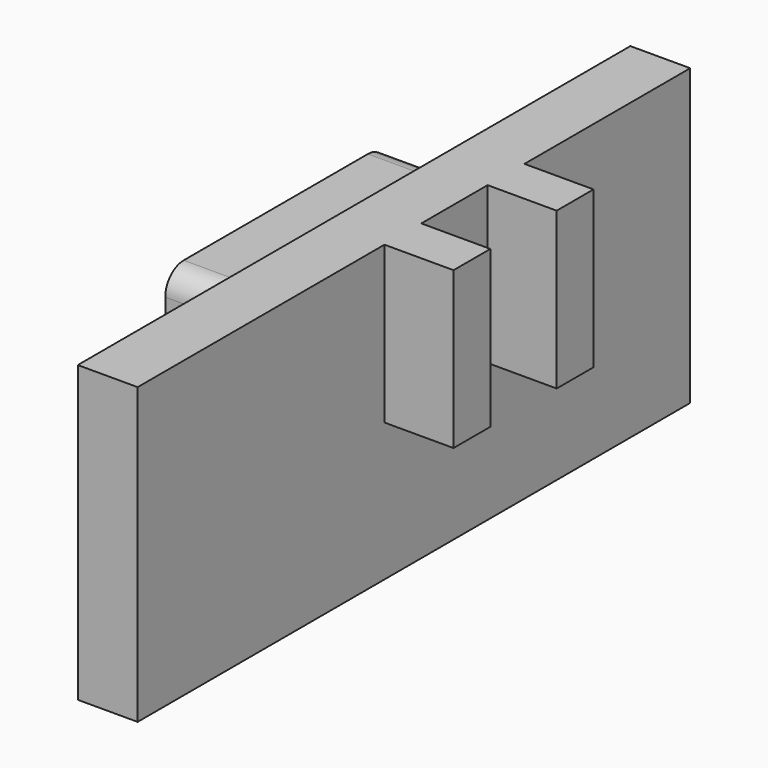
from build123d import *

# Parameters (mm, degrees)
SKETCH019_W  = 15
SKETCH019_H  = 6.4
PAD010_DEPTH = 1.3
SKETCH020_W  = 6
SKETCH020_H  = 1.5
PAD011_DEPTH = 2.5
SKETCH021_W  = 1
SKETCH021_H  = 3.4
PAD012_DEPTH = 1.5
FILLET_R     = 0.5


with BuildPart() as part:
    # Sketch019 → Pad010 (new body)
    with BuildSketch(Plane.YZ.offset(3.6)):
        with Locations((78.3, 5.2)):
            Rectangle(SKETCH019_W, SKETCH019_H)
    extrude(amount=-PAD010_DEPTH)

    # Sketch020 (on Face6 of Pad010) → Pad011 (join)
    with BuildSketch(Plane(origin=(2.3, 0, 0), x_dir=(0, 1, 0), z_dir=(-1, 0, 0))):
        with Locations((79.3, -6.4)):
            Rectangle(SKETCH020_W, SKETCH020_H)
    extrude(amount=PAD011_DEPTH)

    # Sketch021 (on Face4 of Pad011) → Pad012 (join)
    with BuildSketch(Plane.YZ.offset(3.6)):
        with Locations((78, 6.7)):
            Rectangle(SKETCH021_W, SKETCH021_H)
        with Locations((80.8, 6.7)):
            Rectangle(SKETCH021_W, SKETCH021_H)
    extrude(amount=PAD012_DEPTH)

    # Fillet
    fillet_edges = [part.edges().sort_by_distance(p)[0] for p in [
        (1.05, 76.3, 7.15),
        (1.05, 76.3, 5.65),
        (1.05, 82.3, 5.65),
        (1.05, 82.3, 7.15),
    ]]
    fillet(fillet_edges, radius=FILLET_R)


solid = part.part
